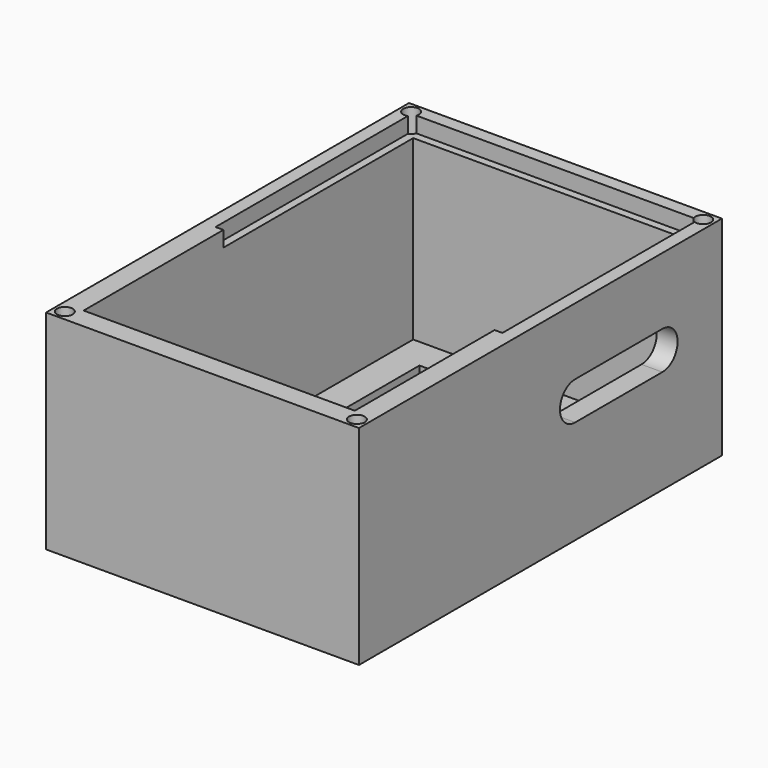
from build123d import *

# Parameters (mm, degrees)
SKETCH_W        = 60
SKETCH_H        = 87
SKETCH_W_2      = 20
SKETCH_H_2      = 52
PAD_DEPTH       = 3
SKETCH001_W     = 60
SKETCH001_H     = 87
SKETCH001_R     = 1.5
SKETCH001_W_2   = 52
SKETCH001_H_2   = 79
PAD001_DEPTH    = 40
SKETCH002_W     = 55
SKETCH002_H     = 47
POCKET_DEPTH    = 3
POCKET001_DEPTH = 4


with BuildPart() as part:
    # Sketch → Pad (new body)
    with BuildSketch(Plane.XY):
        with Locations((30, 43.5)):
            Rectangle(SKETCH_W, SKETCH_H)
        with Locations((20, 51)):
            Rectangle(SKETCH_W_2, SKETCH_H_2, mode=Mode.SUBTRACT)
    extrude(amount=PAD_DEPTH)

    # Sketch001 (on Pad) → Pad001 (join)
    with BuildSketch(Plane.XY):
        with Locations((30, 43.5)):
            Rectangle(SKETCH001_W, SKETCH001_H)
        with Locations((2, 2)):
            Circle(SKETCH001_R, mode=Mode.SUBTRACT)
        with Locations((58, 2)):
            Circle(SKETCH001_R, mode=Mode.SUBTRACT)
        with Locations((2, 85)):
            Circle(SKETCH001_R, mode=Mode.SUBTRACT)
        with Locations((58, 85)):
            Circle(SKETCH001_R, mode=Mode.SUBTRACT)
        with Locations((30, 43.5)):
            Rectangle(SKETCH001_W_2, SKETCH001_H_2, mode=Mode.SUBTRACT)
    extrude(amount=PAD001_DEPTH)

    # Sketch002 (on Face20 of Pad001) → Pocket (cut)
    with BuildSketch(Plane.XY.offset(40)):
        with Locations((30, 61)):
            Rectangle(SKETCH002_W, SKETCH002_H)
    extrude(amount=-POCKET_DEPTH, mode=Mode.SUBTRACT)

    # Sketch003 (on Face26 of Pocket) → Pocket001 (cut)
    with BuildSketch(Plane.YZ.offset(60)):
        with BuildLine():
            ThreePointArc((72.724212, 19.885724), (76.374689, 23.536201), (72.724212, 27.186677))
            Line((72.724212, 27.186677), (51.825985, 27.186677))
            ThreePointArc((51.825985, 27.186677), (48.175508, 23.536201), (51.825985, 19.885724))
            Line((72.724212, 19.885724), (51.825985, 19.885724))
        make_face()
    extrude(amount=-POCKET001_DEPTH, mode=Mode.SUBTRACT)


solid = part.part
